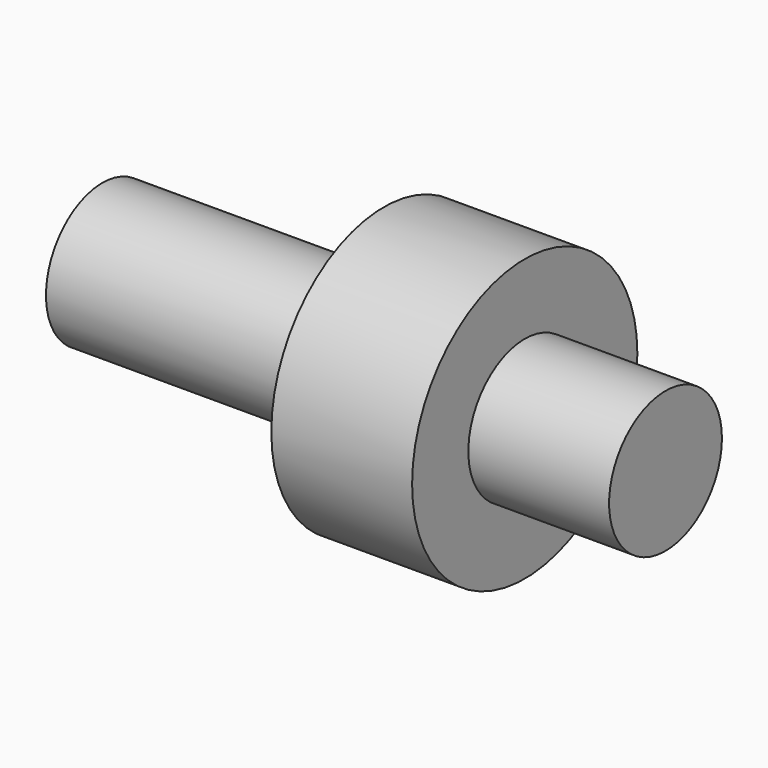
from build123d import *

# Parameters (mm, degrees)
F0_R     = 63.593416
F1_DEPTH = 508
F3_R     = 127
F4_DEPTH = 127


with BuildPart() as f1:
    # F0 (on Right) → F1 (new body)
    with BuildSketch(Plane.YZ):
        Circle(F0_R)
    extrude(amount=F1_DEPTH)

    # F3 (on offset) → F4 (join)
    with BuildSketch(Plane.YZ.offset(381)):
        Circle(F3_R)
    extrude(amount=-F4_DEPTH)


solid = f1.part
